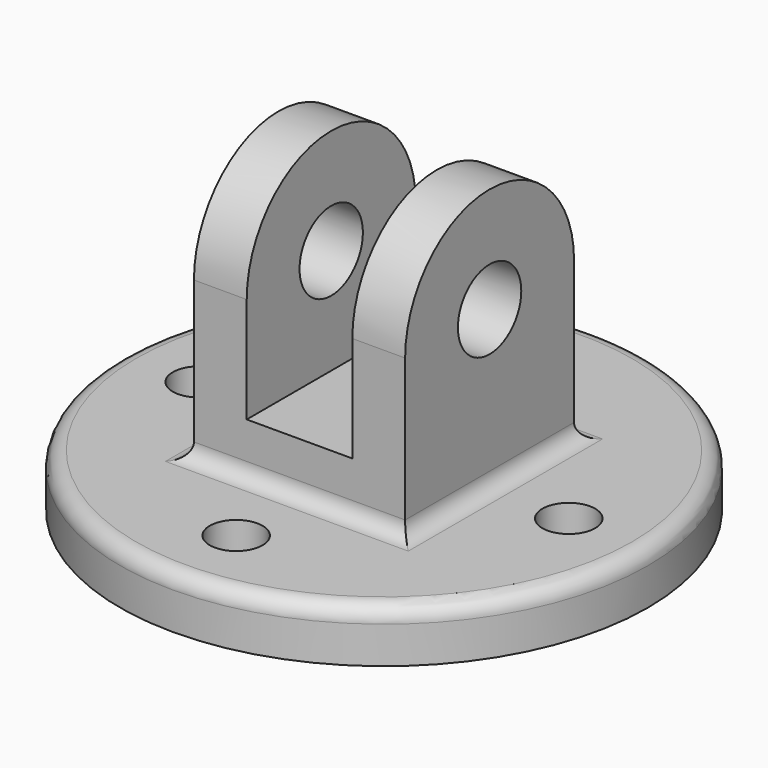
from build123d import *

# Parameters (mm, degrees)
F0_R     = 9.525
F1_DEPTH = 50.8
F2_W     = 25.4
F2_H     = 76.2
F3_DEPTH = 50.801
F4_R     = 63.5
F4_R_2   = 6.35
F4_W     = 50.8
F4_H     = 50.8
F5_DEPTH = 12.7
F6_R     = 3.81


with BuildPart() as f1:
    # F0 (on Right) → F1 (new body)
    with BuildSketch(Plane.YZ):
        with BuildLine():
            Line((0, 38.1), (0, 0))
            Line((0, 0), (50.8, 0))
            Line((50.8, 0), (50.8, 38.1))
            ThreePointArc((50.8, 38.1), (25.4, 63.5), (0, 38.1))
        make_face()
        with Locations((25.4, 38.1)):
            Circle(F0_R, mode=Mode.SUBTRACT)
    extrude(amount=F1_DEPTH)

    # F2 (on face) → F3 (cut, through all)
    with BuildSketch(Plane.XZ):
        with Locations((25.4, 50.8)):
            Rectangle(F2_W, F2_H)
    extrude(amount=-F3_DEPTH, mode=Mode.SUBTRACT)

    # F4 (on face) → F5 (join)
    with BuildSketch(Plane(origin=(0, 0, 0), x_dir=(1, 0, 0), z_dir=(0, 0, -1))):
        with Locations((25.4, -25.4)):
            Circle(F4_R)
        with Locations((25.4, -69.85)):
            Circle(F4_R_2, mode=Mode.SUBTRACT)
        with Locations((-19.05, -25.4)):
            Circle(F4_R_2, mode=Mode.SUBTRACT)
        with Locations((25.4, -25.4)):
            Rectangle(F4_W, F4_H, mode=Mode.SUBTRACT)
        with Locations((69.85, -25.4)):
            Circle(F4_R_2, mode=Mode.SUBTRACT)
        with Locations((25.4, 19.05)):
            Circle(F4_R_2, mode=Mode.SUBTRACT)
        with Locations((25.4, -25.4)):
            Rectangle(F4_W, F4_H)
    extrude(amount=F5_DEPTH)

    # F6
    f6_edges = [f1.edges().sort_by_distance(p)[0] for p in [
        (50.8, 25.4, 0),
        (25.4, 0, 0),
        (25.4, 50.8, 0),
        (0, 25.4, 0),
        (-38.1, 25.4, 0),
    ]]
    fillet(f6_edges, radius=F6_R)


solid = f1.part
